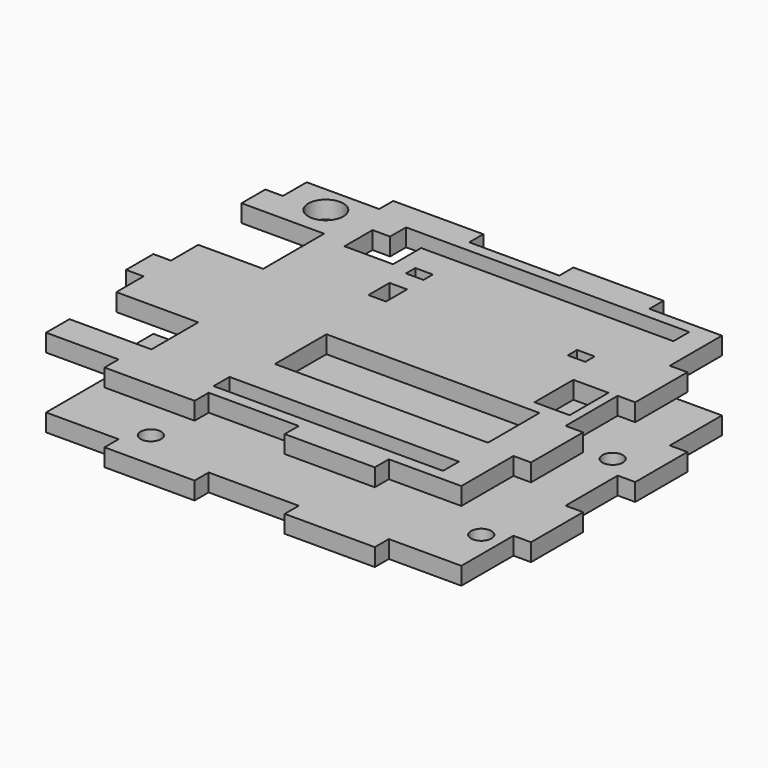
from build123d import *

# Parameters (mm, degrees)
EXTRUDE004_DEPTH = 3
EXTRUDE003_DEPTH = 3
EXTRUDE002_DEPTH = 3
SKETCH001_R      = 3
SKETCH001_W      = 3
SKETCH001_H      = 2
SKETCH001_W_2    = 36.4
SKETCH001_H_2    = 11
SKETCH001_W_3    = 6
SKETCH001_H_3    = 8.3
SKETCH001_W_4    = 39.2
SKETCH001_H_4    = 3.4
SKETCH001_H_5    = 4.5
EXTRUDE001_DEPTH = 3
SKETCH_W         = 76.95
SKETCH_H         = 61.65
SKETCH_R         = 1.75
EXTRUDE_DEPTH    = 3


with BuildPart() as extrude004:
    # Sketch004 (on Face10 of Cut005) → Extrude004 (new body)
    with BuildSketch(Plane.YZ.offset(72.95)):
        Polygon((-1, 15), (10.13, 15), (10.13, 12), (21.26, 12), (21.26, 15), (32.39, 15), (32.39, 12), (43.52, 12), (43.52, 15), (54.65, 15), (54.65, 12), (57.65, 12), (57.65, 3), (54.65, 3), (54.65, 0), (43.52, 0), (43.52, 3), (32.39, 3), (32.39, 0), (21.26, 0), (21.26, 3), (10.13, 3), (10.13, 0), (-1, 0), (-1, 3), (-4, 3), (-4, 12), (-1, 12), align=None)
    extrude(amount=-EXTRUDE004_DEPTH)


with BuildPart() as frontal:
    # Sketch003 (on Face20 of Cut003) → Extrude003 (new body)
    with BuildSketch(Plane(origin=(-4, 0, 0), x_dir=(0, -1, 0), z_dir=(-1, 0, 0))):
        Polygon((-54.65, 15), (-54.65, 12), (-57.65, 12), (-57.65, 3), (-49.575, 3), (-49.575, 0), (-25.666667, 0), (-25.666667, 3), (-19.833333, 3), (-19.833333, 0), (1, 0), (1, 3), (4, 3), (4, 12), (1, 12), (1, 15), (-4, 15), (-4, 5), (-14, 5), (-14, 15), (-19.833333, 15), (-19.833333, 12), (-25.666667, 12), (-25.666667, 15), (-31.5, 15), (-31.5, 5), (-44.5, 5), (-44.5, 12), (-49.575, 12), (-49.575, 15), align=None)
    extrude(amount=-EXTRUDE003_DEPTH)


with BuildPart() as face_longitudinal:
    # Sketch002 (on Face3 of Extrude) → Extrude002 (new body)
    with BuildSketch(Plane.XZ.offset(4)):
        Polygon((-4, 15), (11.39, 15), (11.39, 12), (26.78, 12), (26.78, 15), (42.17, 15), (42.17, 12), (57.56, 12), (57.56, 15), (72.95, 15), (72.95, 12), (69.95, 12), (69.95, 3), (72.95, 3), (72.95, 0), (57.56, 0), (57.56, 3), (42.17, 3), (42.17, 0), (26.78, 0), (26.78, 3), (11.39, 3), (11.39, 0), (-4, 0), (-4, 3), (-1, 3), (-1, 12), (-4, 12), align=None)
    extrude(amount=-EXTRUDE002_DEPTH)


with BuildPart() as face_longitudinal_mirrored:
    # mirror: instance of Face Longitudinal
    add(face_longitudinal.part.mirror(Plane(origin=(71.95, 26.825, 12.5), x_dir=(1, 0, 0), z_dir=(0, 1, 0))))


with BuildPart() as cut006:
    # Sketch001 → Extrude001 (new body)
    with BuildSketch(Plane.XY):
        Polygon((-4, 57.65), (72.95, 57.65), (72.95, -4), (-4, -4), (-4, 4), (13, 4), (13, 14), (-4, 14), (-4, 31.5), (10.1, 31.5), (10.1, 44.5), (-4, 44.5), align=None)
        with Locations((6, 50)):
            Circle(SKETCH001_R, mode=Mode.SUBTRACT)
        with Locations((27.3, 43.35)):
            Rectangle(SKETCH001_W, SKETCH001_H, mode=Mode.SUBTRACT)
        with Locations((46.7, 16.5)):
            Rectangle(SKETCH001_W_2, SKETCH001_H_2, mode=Mode.SUBTRACT)
        with Locations((65.45, 28.15)):
            Rectangle(SKETCH001_W_3, SKETCH001_H_3, mode=Mode.SUBTRACT)
        with Locations((45.7, 2.6)):
            Rectangle(SKETCH001_W_4, SKETCH001_H_4, mode=Mode.SUBTRACT)
        Polygon((22.8, 43.35), (14.5, 43.35), (14.5, 49.35), (17.5, 49.35), (17.5, 52.75), (65.9, 52.75), (65.9, 49.35), (22.8, 49.35), align=None, mode=Mode.SUBTRACT)
        with Locations((27.3, 36.6)):
            Rectangle(SKETCH001_W, SKETCH001_H_5, mode=Mode.SUBTRACT)
        with Locations((58.95, 38.35)):
            Rectangle(SKETCH001_W, SKETCH001_H, mode=Mode.SUBTRACT)
    extrude(amount=EXTRUDE001_DEPTH)


with BuildPart() as cut006_1:
    # Extrude001 placement: moved
    add(cut006.part.moved(Location((0, 0, 12))))

    # Cut: cut Face Longitudinal
    add(face_longitudinal.part, mode=Mode.SUBTRACT)

    # Cut001: cut Face Longitudinal (mirrored)
    add(face_longitudinal_mirrored.part, mode=Mode.SUBTRACT)

    # Cut004: cut Frontal
    add(frontal.part, mode=Mode.SUBTRACT)

    # Cut006: cut Extrude004
    add(extrude004.part, mode=Mode.SUBTRACT)


with BuildPart() as cut007:
    # Sketch → Extrude (new body)
    with BuildSketch(Plane.XY):
        with Locations((34.475, 26.825)):
            Rectangle(SKETCH_W, SKETCH_H)
        with Locations((15.334135, 51.082933)):
            Circle(SKETCH_R, mode=Mode.SUBTRACT)
        with Locations((66.409951, 35.749834)):
            Circle(SKETCH_R, mode=Mode.SUBTRACT)
        with Locations((66.413926, 7.668398)):
            Circle(SKETCH_R, mode=Mode.SUBTRACT)
        with Locations((14.05247, 2.556984)):
            Circle(SKETCH_R, mode=Mode.SUBTRACT)
    extrude(amount=EXTRUDE_DEPTH)

    # Cut002: cut Face Longitudinal
    add(face_longitudinal.part, mode=Mode.SUBTRACT)

    # Cut003: cut Face Longitudinal (mirrored)
    add(face_longitudinal_mirrored.part, mode=Mode.SUBTRACT)

    # Cut005: cut Frontal
    add(frontal.part, mode=Mode.SUBTRACT)

    # Cut007: cut Extrude004
    add(extrude004.part, mode=Mode.SUBTRACT)


solid = Compound([cut006_1.part, cut007.part])
